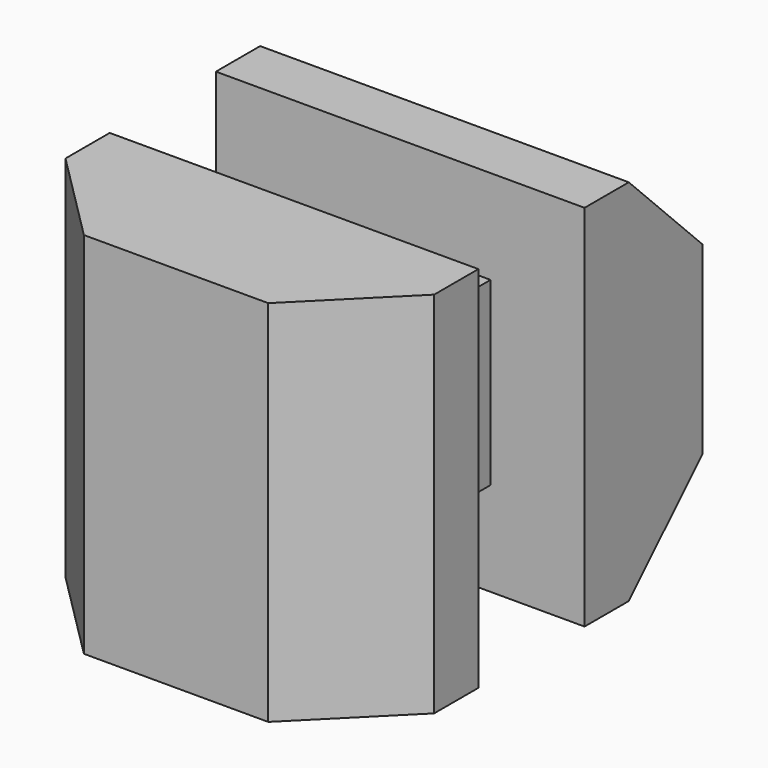
from build123d import *

# Parameters (mm, degrees)
PAD_DEPTH         = 5
POCKET_DEPTH      = 5.001
POCKET_DEPTH_BACK = -5.001


with BuildPart() as part:
    # Sketch → Pad (new body, symmetric)
    with BuildSketch(Plane.XY):
        Polygon((-5, 4), (-2.45, 4), (-2.45, 7.6), (-5, 7.6), (-5, 11.6), (5, 11.6), (5, 7.6), (2.45, 7.6), (2.45, 4), (5, 4), (5, 2.5), (2.5, 0), (-2.5, 0), (-5, 2.5), align=None)
    extrude(amount=PAD_DEPTH, both=True)

    # Sketch001 → Pocket (cut, two sides)
    with BuildSketch(Plane.YZ) as pocket_sk:
        Polygon((11.6, 2.5), (11.6, -2.5), (9.1, -5), (7.6, -5), (7.6, -2.45), (4, -2.45), (4, -6.892367), (13.16095, -6.892367), (13.16095, 6.892367), (4, 6.892367), (4, 2.45), (7.6, 2.45), (7.6, 5), (9.1, 5), align=None)
    extrude(amount=-POCKET_DEPTH, mode=Mode.SUBTRACT)
    extrude(pocket_sk.sketch, amount=-POCKET_DEPTH_BACK, mode=Mode.SUBTRACT)


solid = part.part
